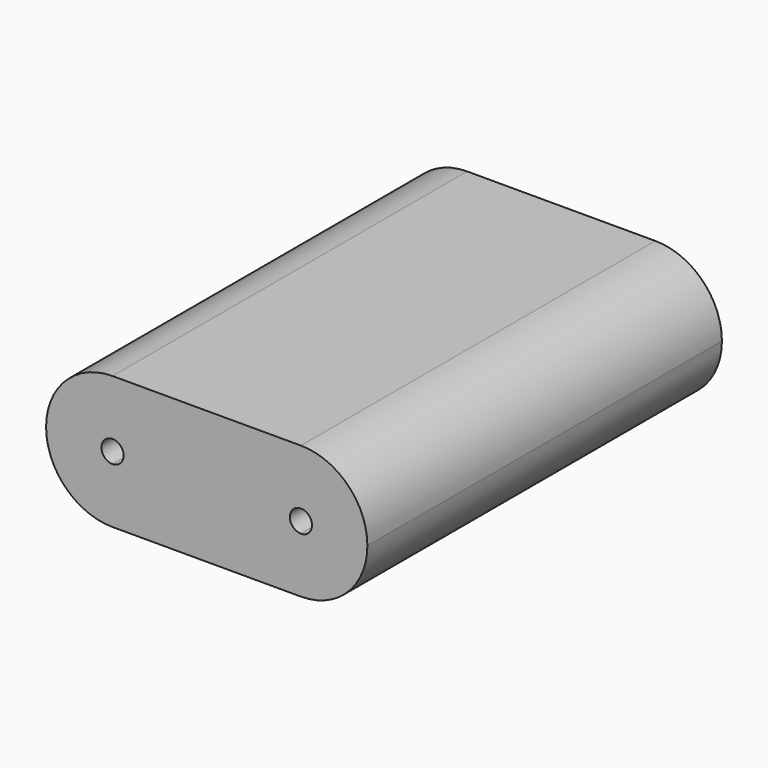
from build123d import *

# Parameters (mm, degrees)
F1_DEPTH = 5


with BuildPart() as f1:
    # F0 (on Front) → F1 (new body, symmetric)
    with BuildSketch(Plane.XZ):
        with BuildLine():
            ThreePointArc((-0.625, 0), (-1.06434, 1.06066), (-2.125, 1.5))
            Line((-2.125, 1.5), (-2.125, 0.25))
            ThreePointArc((-2.125, 0.25), (-1.948223, 0.176777), (-1.875, 0))
            ThreePointArc((-1.875, 0), (-1.948223, -0.176777), (-2.125, -0.25))
            Line((-2.125, -0.25), (-2.125, -1.5))
            ThreePointArc((-2.125, -1.5), (-1.06434, -1.06066), (-0.625, 0))
        make_face()
        with BuildLine():
            Line((-2.125, 0.25), (-2.125, 1.5))
            ThreePointArc((-2.125, 1.5), (-3.625, 0), (-2.125, -1.5))
            Line((-2.125, -1.5), (-2.125, -0.25))
            ThreePointArc((-2.125, -0.25), (-2.375, 0), (-2.125, 0.25))
        make_face()
        with BuildLine():
            Line((2.125, 1.5), (-2.125, 1.5))
            ThreePointArc((-2.125, 1.5), (-1.06434, 1.06066), (-0.625, 0))
            ThreePointArc((-0.625, 0), (-1.06434, -1.06066), (-2.125, -1.5))
            Line((-2.125, -1.5), (2.125, -1.5))
            ThreePointArc((2.125, -1.5), (0.625, 0), (2.125, 1.5))
        make_face()
        with BuildLine():
            ThreePointArc((3.625, 0), (3.18566, 1.06066), (2.125, 1.5))
            Line((2.125, 1.5), (2.125, 0.25))
            ThreePointArc((2.125, 0.25), (2.301777, 0.176777), (2.375, 0))
            ThreePointArc((2.375, 0), (2.301777, -0.176777), (2.125, -0.25))
            Line((2.125, -0.25), (2.125, -1.5))
            ThreePointArc((2.125, -1.5), (3.18566, -1.06066), (3.625, 0))
        make_face()
        with BuildLine():
            Line((2.125, 0.25), (2.125, 1.5))
            ThreePointArc((2.125, 1.5), (0.625, 0), (2.125, -1.5))
            Line((2.125, -1.5), (2.125, -0.25))
            ThreePointArc((2.125, -0.25), (1.875, 0), (2.125, 0.25))
        make_face()
    extrude(amount=F1_DEPTH, both=True)


solid = f1.part
